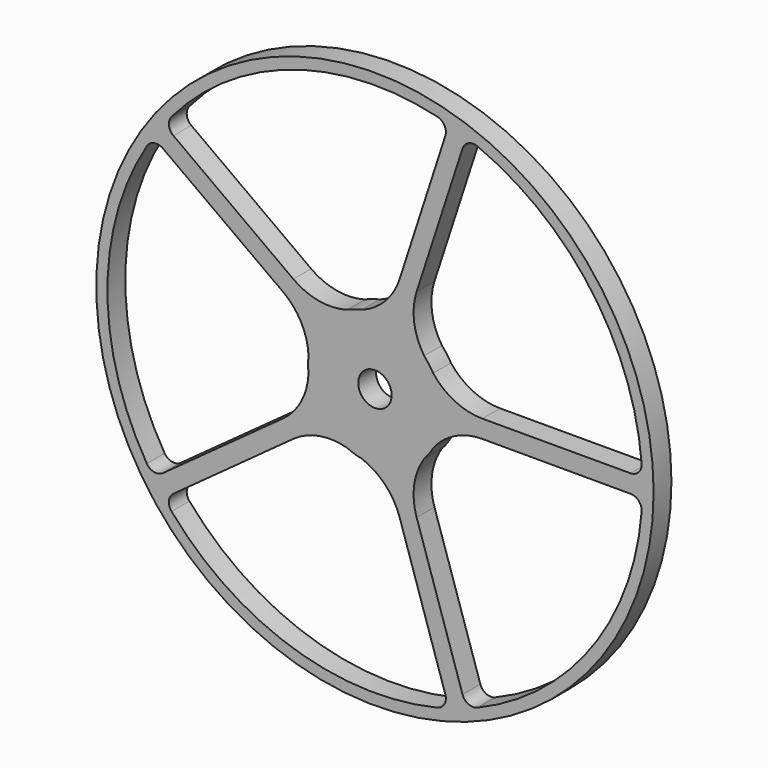
from build123d import *

# Parameters (mm, degrees)
F0_R     = 39.6875
F0_R_2   = 2.38125
F1_DEPTH = 3.175


with BuildPart() as f1:
    # F0 (on Front) → F1 (new body)
    with BuildSketch(Plane.XZ):
        Circle(F0_R)
        with BuildLine():
            Line((-28.692183, -22.436528), (-11.631072, -10.022431))
            ThreePointArc((-11.631072, -10.022431), (-7.953459, -8.457568), (-3.961983, -8.661889))
            ThreePointArc((-3.961983, -8.661889), (-2.943387, -9.058813), (-1.886019, -9.33641))
            ThreePointArc((-1.886019, -9.33641), (1.46325, -11.517242), (3.518698, -14.944889))
            Line((3.518698, -14.944889), (10.024603, -35.016374))
            ThreePointArc((10.024603, -35.016374), (9.899166, -36.282225), (8.884648, -37.049602))
            ThreePointArc((8.884648, -37.049602), (-11.773547, -36.235253), (-28.965041, -24.751493))
            ThreePointArc((-28.965041, -24.751493), (-29.334751, -23.534353), (-28.692183, -22.436528))
        make_face(mode=Mode.SUBTRACT)
        with BuildLine():
            ThreePointArc((8.296642, -4.67882), (11.405717, -2.16739), (15.300772, -1.271745))
            Line((15.300772, -1.271745), (36.400324, -1.28669))
            ThreePointArc((36.400324, -1.28669), (37.565457, -1.797158), (37.981773, -2.999155))
            ThreePointArc((37.981773, -2.999155), (30.823547, -22.394618), (14.589379, -35.196023))
            ThreePointArc((14.589379, -35.196023), (13.317564, -35.171521), (12.472034, -34.221156))
            Line((12.472034, -34.221156), (5.937699, -14.158908))
            ThreePointArc((5.937699, -14.158908), (5.585871, -10.177722), (7.013626, -6.444741))
            ThreePointArc((7.013626, -6.444741), (7.705887, -5.598655), (8.296642, -4.67882))
        make_face(mode=Mode.SUBTRACT)
        with BuildLine():
            Line((-30.204778, 20.354619), (-13.126097, 7.964705))
            ThreePointArc((-13.126097, 7.964705), (-10.501379, 4.950657), (-9.462266, 1.091399))
            ThreePointArc((-9.462266, 1.091399), (-9.525, 0), (-9.462266, -1.091399))
            ThreePointArc((-9.462266, -1.091399), (-10.501379, -4.950657), (-13.126097, -7.964705))
            Line((-13.126097, -7.964705), (-30.204778, -20.354619))
            ThreePointArc((-30.204778, -20.354619), (-31.447436, -20.626491), (-32.490759, -19.898759))
            ThreePointArc((-32.490759, -19.898759), (-38.1, 0), (-32.490759, 19.898759))
            ThreePointArc((-32.490759, 19.898759), (-31.447436, 20.626491), (-30.204778, 20.354619))
        make_face(mode=Mode.SUBTRACT)
        with BuildLine():
            Line((10.024603, 35.016374), (3.518698, 14.944889))
            ThreePointArc((3.518698, 14.944889), (1.46325, 11.517242), (-1.886019, 9.33641))
            ThreePointArc((-1.886019, 9.33641), (-2.943387, 9.058813), (-3.961983, 8.661889))
            ThreePointArc((-3.961983, 8.661889), (-7.953459, 8.457568), (-11.631072, 10.022431))
            Line((-11.631072, 10.022431), (-28.692183, 22.436528))
            ThreePointArc((-28.692183, 22.436528), (-29.334751, 23.534353), (-28.965041, 24.751493))
            ThreePointArc((-28.965041, 24.751493), (-11.773547, 36.235253), (8.884648, 37.049602))
            ThreePointArc((8.884648, 37.049602), (9.899166, 36.282225), (10.024603, 35.016374))
        make_face(mode=Mode.SUBTRACT)
        Circle(F0_R_2, mode=Mode.SUBTRACT)
        with BuildLine():
            ThreePointArc((14.589379, 35.196023), (30.823547, 22.394618), (37.981773, 2.999155))
            ThreePointArc((37.981773, 2.999155), (37.565457, 1.797158), (36.400324, 1.28669))
            Line((36.400324, 1.28669), (15.300772, 1.271745))
            ThreePointArc((15.300772, 1.271745), (11.405717, 2.16739), (8.296642, 4.67882))
            ThreePointArc((8.296642, 4.67882), (7.705887, 5.598655), (7.013626, 6.444741))
            ThreePointArc((7.013626, 6.444741), (5.585871, 10.177722), (5.937699, 14.158908))
            Line((5.937699, 14.158908), (12.472034, 34.221156))
            ThreePointArc((12.472034, 34.221156), (13.317564, 35.171521), (14.589379, 35.196023))
        make_face(mode=Mode.SUBTRACT)
    extrude(amount=F1_DEPTH)


solid = f1.part
